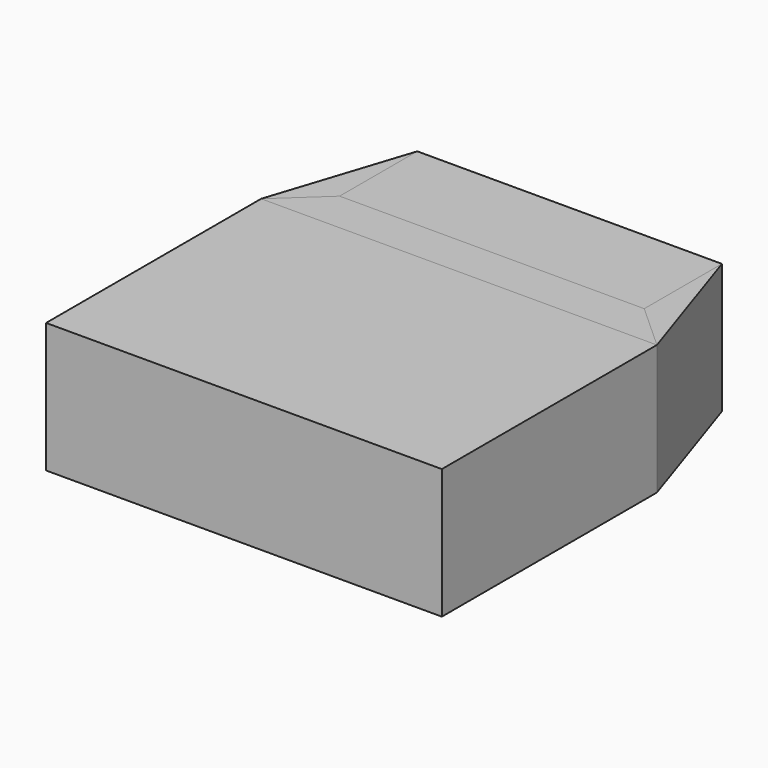
from build123d import *

# Parameters (mm, degrees)
F0_W       = 66.25
F0_H       = 45
F1_DEPTH   = 21.75
F2_W       = 51
F2_H       = 16.25
F3_DEPTH   = 21.7424
F1_FACE_W  = 45
F1_FACE_H  = 21.75
F3_FACE_W  = 16.25
F3_FACE_H  = 21.7424
F1_FACE1_W = 45
F1_FACE1_H = 21.75
F3_FACE1_W = 16.25
F3_FACE1_H = 21.7424
F3_FACE2_W = 51
F3_FACE2_H = 21.7424
F1_FACE2_W = 66.25
F1_FACE2_H = 21.75


with BuildPart() as f1:
    # F0 (on Top) → F1 (new body)
    with BuildSketch(Plane.XY):
        with Locations((-7.0303958654, -18.5577654839)):
            Rectangle(F0_W, F0_H)
    extrude(amount=F1_DEPTH)


with BuildPart() as f3:
    # F2 (on Top) → F3 (new body)
    with BuildSketch(Plane.XY):
        with Locations((-7.119971782, 19.0672345161)):
            Rectangle(F2_W, F2_H)
    extrude(amount=F3_DEPTH)


with BuildPart() as f4:
    # F1_face (on face) → F4 section 0
    with BuildSketch(Plane(origin=(-40.1553958654, -18.5577654839, 10.875), x_dir=(0, -1, 0), z_dir=(-1, 0, 0))):
        Rectangle(F1_FACE_W, F1_FACE_H)
    # F3_face (on face) → F4 section 1
    with BuildSketch(Plane(origin=(-32.619971782, 19.0672345161, 10.8712), x_dir=(0, -1, 0), z_dir=(-1, 0, 0))):
        Rectangle(F3_FACE_W, F3_FACE_H)
    loft()


with BuildPart() as f5:
    # F1_face1 (on face) → F5 section 0
    with BuildSketch(Plane(origin=(26.0946041346, -18.5577654839, 10.875), x_dir=(0, 1, 0), z_dir=(1, 0, 0))):
        Rectangle(F1_FACE1_W, F1_FACE1_H)
    # F3_face1 (on face) → F5 section 1
    with BuildSketch(Plane(origin=(18.380028218, 19.0672345161, 10.8712), x_dir=(0, 1, 0), z_dir=(1, 0, 0))):
        Rectangle(F3_FACE1_W, F3_FACE1_H)
    loft()


with BuildPart() as f6:
    # F3_face2 (on face) → F6 section 0
    with BuildSketch(Plane(origin=(-7.119971782, 10.9422345161, 10.8712), x_dir=(1, 0, 0), z_dir=(0, -1, 0))):
        Rectangle(F3_FACE2_W, F3_FACE2_H)
    # F1_face2 (on face) → F6 section 1
    with BuildSketch(Plane(origin=(-7.0303958654, 3.9422345161, 10.875), x_dir=(-1, 0, 0), z_dir=(0, 1, 0))):
        Rectangle(F1_FACE2_W, F1_FACE2_H)
    loft()


solid = Compound([f1.part, f3.part, f4.part, f5.part, f6.part])
